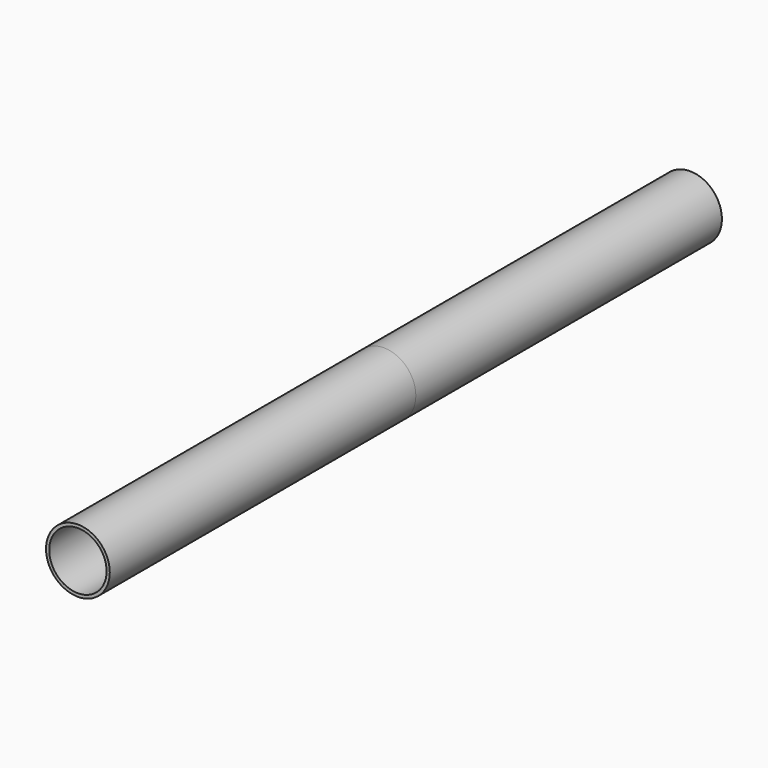
from build123d import *

# Parameters (mm, degrees)
F0_R     = 25
F1_DEPTH = 300
F3_R     = 22.5
F4_DEPTH = 600


with BuildPart() as f1:
    # F0 (on Front) → F1 (new body)
    with BuildSketch(Plane.XZ):
        Circle(F0_R)
    extrude(amount=-F1_DEPTH)

    # F2: F1 across face


with BuildPart() as f1_1:
    add(f1.part)
    add(f1.part.mirror(Plane.XZ))

    # F3 (on face) → F4 (cut)
    with BuildSketch(Plane.XZ.offset(300)):
        Circle(F3_R)
    extrude(amount=-F4_DEPTH, mode=Mode.SUBTRACT)


solid = f1_1.part
